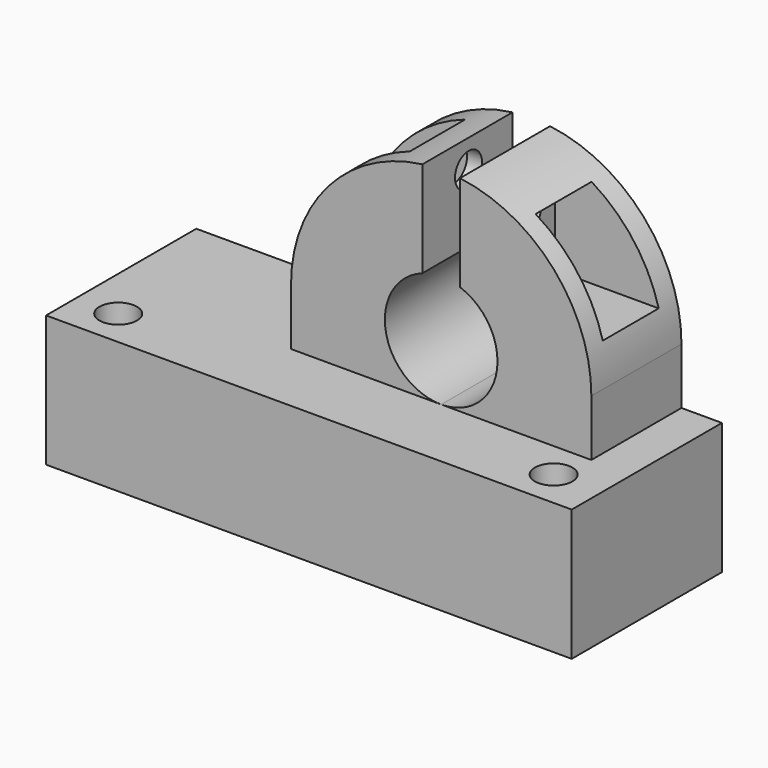
from build123d import *

# Parameters (mm, degrees)
F1_DEPTH  = 50
F2_DEPTH  = 30
F3_R      = 4.5
F4_DEPTH  = 45.7741506228
F5_R      = 4.5
F6_DEPTH  = 84.2278493772
F7_R      = 5
F8_DEPTH  = 57
F9_W      = 18.3949293569
F9_H      = 20.3943792731
F10_DEPTH = 31
F11_W     = 18.6150614172
F11_H     = 23.8758381456
F12_DEPTH = 29


with BuildPart() as f1:
    # F0 (on Front) → F1 (new body)
    with BuildSketch(Plane.XZ):
        with BuildLine():
            Line((40, -15), (37.0809924355, -15))
            ThreePointArc((37.0809924355, -15), (0, -40), (-37.0809924355, -15))
            Line((-37.0809924355, -15), (-40, -15))
            Line((-40, -15), (-89.2268493772, -15))
            Line((-89.2268493772, -15), (-89.2268493772, -50))
            Line((-89.2268493772, -50), (50.7731506228, -50))
            Line((50.7731506228, -50), (50.7731506228, -15))
            Line((50.7731506228, -15), (40, -15))
        make_face()
        with BuildLine():
            Line((37.0809924355, -15), (0, -15))
            Line((0, -15), (-37.0809924355, -15))
            ThreePointArc((-37.0809924355, -15), (0, -40), (37.0809924355, -15))
        make_face()
    extrude(amount=F1_DEPTH)

    # F0 (on Front) → F2 (join)
    with BuildSketch(Plane.XZ):
        with BuildLine():
            Line((40, -15), (37.0809924355, -15))
            ThreePointArc((37.0809924355, -15), (0, -40), (-37.0809924355, -15))
            Line((-37.0809924355, -15), (-40, -15))
            Line((-40, -15), (-89.2268493772, -15))
            Line((-89.2268493772, -15), (-89.2268493772, -50))
            Line((-89.2268493772, -50), (50.7731506228, -50))
            Line((50.7731506228, -50), (50.7731506228, -15))
            Line((50.7731506228, -15), (40, -15))
        make_face()
        with BuildLine():
            Line((-37.0809924355, -15), (0, -15))
            ThreePointArc((0, -15), (-14.7839783948, -2.5365296809), (-5, 14.1421356237))
            Line((-5, 14.1421356237), (-5, 39.686269666))
            ThreePointArc((-5, 39.686269666), (-30, 26.4575131106), (-40, 0))
            ThreePointArc((-40, 0), (-39.2634671, -7.6406904983), (-37.0809924355, -15))
        make_face()
        with BuildLine():
            ThreePointArc((5, 14.1421356237), (12.2474487139, 8.6602540378), (15, 0))
            ThreePointArc((15, 0), (10.6066017178, -10.6066017178), (0, -15))
            Line((0, -15), (37.0809924355, -15))
            ThreePointArc((37.0809924355, -15), (39.2634671, -7.6406904983), (40, 0))
            ThreePointArc((40, 0), (30, 26.4575131106), (5, 39.686269666))
            Line((5, 39.686269666), (5, 14.1421356237))
        make_face()
        with BuildLine():
            Line((37.0809924355, -15), (0, -15))
            Line((0, -15), (-37.0809924355, -15))
            ThreePointArc((-37.0809924355, -15), (0, -40), (37.0809924355, -15))
        make_face()
        with BuildLine():
            Line((-40, -15), (-37.0809924355, -15))
            ThreePointArc((-37.0809924355, -15), (-39.2634671, -7.6406904983), (-40, 0))
            Line((-40, 0), (-40, -15))
        make_face()
        with BuildLine():
            ThreePointArc((40, 0), (39.2634671, -7.6406904983), (37.0809924355, -15))
            Line((37.0809924355, -15), (40, -15))
            Line((40, -15), (40, 0))
        make_face()
    extrude(amount=F2_DEPTH)

    # F3 (on face) → F4 (cut, through all)
    with BuildSketch(Plane(origin=(5, 0, 0), x_dir=(0, -1, 0), z_dir=(-1, 0, 0))):
        with Locations((15, 26.9142026448)):
            Circle(F3_R)
    extrude(amount=-F4_DEPTH, mode=Mode.SUBTRACT)

    # F5 (on face) → F6 (cut, through all)
    with BuildSketch(Plane.YZ.offset(-5)):
        with Locations((-14.6433338523, 32.090269666)):
            Circle(F5_R)
    extrude(amount=-F6_DEPTH, mode=Mode.SUBTRACT)

    # F7 (on face) → F8 (cut)
    with BuildSketch(Plane.XY.offset(-15)):
        with Locations((-78.0106559396, -40)):
            Circle(F7_R)
        with Locations((37.9573963583, -40)):
            Circle(F7_R)
    extrude(amount=-F8_DEPTH, mode=Mode.SUBTRACT)

    # F9 (on face) → F10 (cut)
    with BuildSketch(Plane(origin=(-40, 0, 0), x_dir=(0, -1, 0), z_dir=(-1, 0, 0))):
        with Locations((15.1999453083, 27.6889307424)):
            Rectangle(F9_W, F9_H)
    extrude(amount=-F10_DEPTH, mode=Mode.SUBTRACT)

    # F11 (on face) → F12 (cut)
    with BuildSketch(Plane.YZ.offset(40)):
        with Locations((-15.2023369446, 22.2436347976)):
            Rectangle(F11_W, F11_H)
    extrude(amount=-F12_DEPTH, mode=Mode.SUBTRACT)


solid = f1.part
